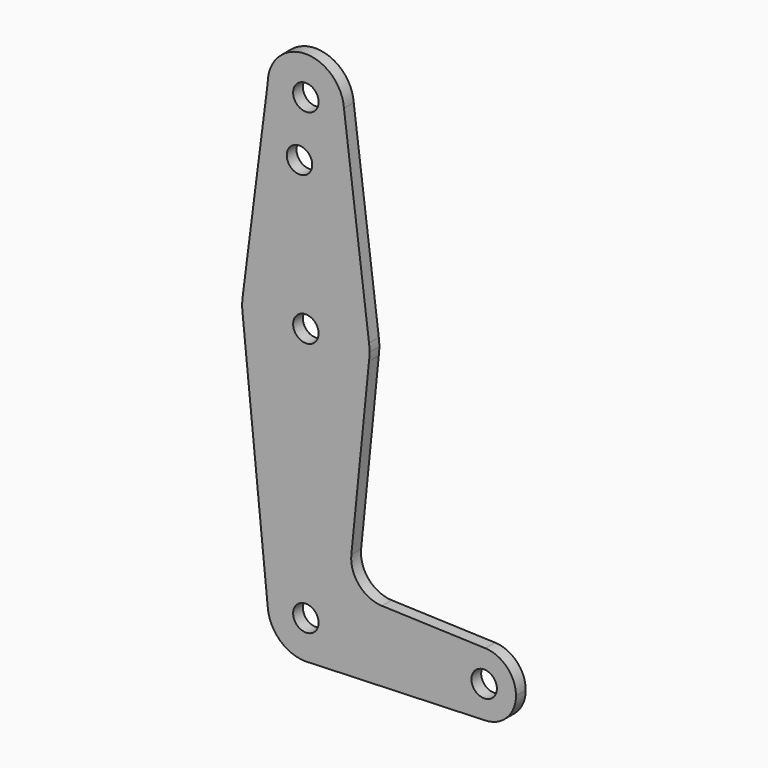
from build123d import *

# Parameters (mm, degrees)
F0_R     = 3.175
F1_DEPTH = 3.048


with BuildPart() as f1:
    # F0 (on Front) → F1 (new body)
    with BuildSketch(Plane.XZ):
        with BuildLine():
            ThreePointArc((-37.277985, 77.62218), (-27.752985, 68.09718), (-18.227985, 77.62218))
            ThreePointArc((-18.227985, 77.62218), (-18.234038, 77.961719), (-18.252192, 78.300827))
            ThreePointArc((-18.252192, 78.300827), (-28.092524, 87.141126), (-37.277985, 77.62218))
        make_face()
        with Locations((-27.752985, 77.62218)):
            Circle(F0_R, mode=Mode.SUBTRACT)
        with BuildLine():
            ThreePointArc((-18.252192, 78.300827), (-18.234038, 77.961719), (-18.227985, 77.62218))
            ThreePointArc((-18.227985, 77.62218), (-27.752985, 68.09718), (-37.277985, 77.62218))
            Line((-37.277985, 77.62218), (-43.500441, 28.830469))
            ThreePointArc((-43.500441, 28.830469), (-27.743142, 42.697177), (-12.00305, 28.810941))
            Line((-12.00305, 28.810941), (-18.252192, 78.300827))
        make_face()
        with Locations((-29.340485, 63.34738)):
            Circle(F0_R, mode=Mode.SUBTRACT)
        with BuildLine():
            ThreePointArc((-11.877985, 26.82218), (-11.909282, 27.818525), (-12.00305, 28.810941))
            ThreePointArc((-12.00305, 28.810941), (-27.743142, 42.697177), (-43.500441, 28.830469))
            ThreePointArc((-43.500441, 28.830469), (-43.627985, 26.82218), (-43.500441, 24.81389))
            ThreePointArc((-43.500441, 24.81389), (-27.743142, 10.947183), (-12.00305, 24.833418))
            ThreePointArc((-12.00305, 24.833418), (-11.909282, 25.825835), (-11.877985, 26.82218))
        make_face()
        with Locations((-27.752985, 26.82218)):
            Circle(F0_R, mode=Mode.SUBTRACT)
        with BuildLine():
            ThreePointArc((-12.00305, 24.833418), (-27.743142, 10.947183), (-43.500441, 24.81389))
            Line((-43.500441, 24.81389), (-37.230326, -37.629467))
            ThreePointArc((-37.230326, -37.629467), (-28.229404, -27.164743), (-18.227985, -36.67782))
            ThreePointArc((-18.227985, -36.67782), (-20.707794, -43.088039), (-26.855997, -46.160491))
            Line((-26.855997, -46.160491), (16.977542, -44.610362))
            ThreePointArc((16.977542, -44.610362), (8.759516, -36.676567), (16.980047, -28.745368))
            Line((16.980047, -28.745368), (-8.786607, -27.826008))
            ThreePointArc((-8.786607, -27.826008), (-14.493096, -25.108281), (-16.413537, -19.086491))
            Line((-16.413537, -19.086491), (-12.00305, 24.833418))
        make_face()
        with BuildLine():
            ThreePointArc((-18.227985, -36.67782), (-28.229404, -27.164743), (-37.230326, -37.629467))
            ThreePointArc((-37.230326, -37.629467), (-34.225817, -43.665529), (-27.977879, -46.200165))
            Line((-27.977879, -46.200165), (-26.855997, -46.160491))
            ThreePointArc((-26.855997, -46.160491), (-20.707794, -43.088039), (-18.227985, -36.67782))
        make_face()
        with Locations((-27.752985, -36.67782)):
            Circle(F0_R, mode=Mode.SUBTRACT)
        with BuildLine():
            Line((-26.855997, -46.160491), (-27.977879, -46.200165))
            ThreePointArc((-27.977879, -46.200165), (-27.416353, -46.19687), (-26.855997, -46.160491))
        make_face()
        with BuildLine():
            ThreePointArc((24.634515, -36.67782), (22.408866, -31.166135), (16.980047, -28.745368))
            ThreePointArc((16.980047, -28.745368), (8.759516, -36.676567), (16.977542, -44.610362))
            ThreePointArc((16.977542, -44.610362), (22.407995, -42.190407), (24.634515, -36.67782))
        make_face()
        with Locations((16.697015, -36.67782)):
            Circle(F0_R, mode=Mode.SUBTRACT)
    extrude(amount=F1_DEPTH)


solid = f1.part
